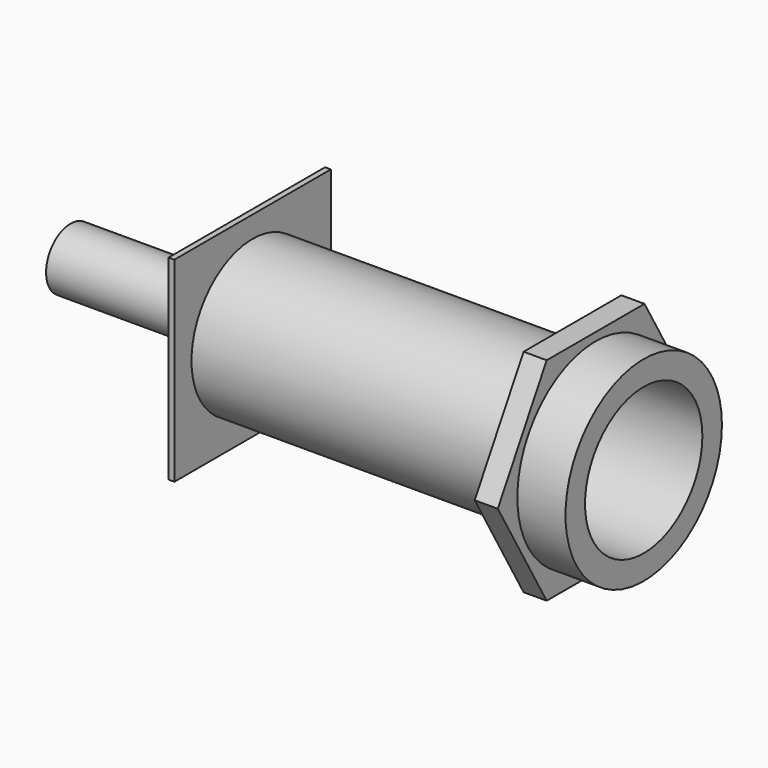
from build123d import *

# Parameters (mm, degrees)
F0_W      = 101.6
F0_H      = 3.175
F3_W      = 101.6
F3_H      = 101.6
F3_R      = 14.2875
F4_DEPTH  = 3
F5_R      = 39.6875
F5_R_2    = 38.1
F6_DEPTH  = 203.2
F7_R      = 50.8
F7_R_2    = 39.6875
F8_DEPTH  = 25
F9_R      = 39.668
F10_DEPTH = 12


with BuildPart() as f1:
    # F0 (on Front) → F1 (revolve)
    with BuildSketch(Plane.XZ):
        with Locations((50.8, 14.2875)):
            Rectangle(F0_W, F0_H)
    revolve(axis=Axis((107.303783, 0, 0), (1, 0, 0)))

    # F3 (on offset) → F4 (join)
    with BuildSketch(Plane.YZ.offset(91.6)):
        Rectangle(F3_W, F3_H)
        Circle(F3_R, mode=Mode.SUBTRACT)
    extrude(amount=F4_DEPTH)

    # F5 (on face) → F6 (join)
    with BuildSketch(Plane.YZ.offset(94.6)):
        Circle(F5_R)
        Circle(F5_R_2, mode=Mode.SUBTRACT)
    extrude(amount=F6_DEPTH)

    # F7 (on face) → F8 (join)
    with BuildSketch(Plane.YZ.offset(297.8)):
        Circle(F7_R)
        Circle(F7_R_2, mode=Mode.SUBTRACT)
    extrude(amount=-F8_DEPTH)

    # F9 (on face) → F10 (join)
    with BuildSketch(Plane(origin=(272.8, 0, 0), x_dir=(0, -1, 0), z_dir=(-1, 0, 0))):
        Polygon((63.50853, 0), (31.754265, 55), (-31.754265, 55), (-63.50853, 0), (-31.754265, -55), (31.754265, -55), align=None)
        Circle(F9_R, mode=Mode.SUBTRACT)
    extrude(amount=F10_DEPTH)


solid = f1.part
